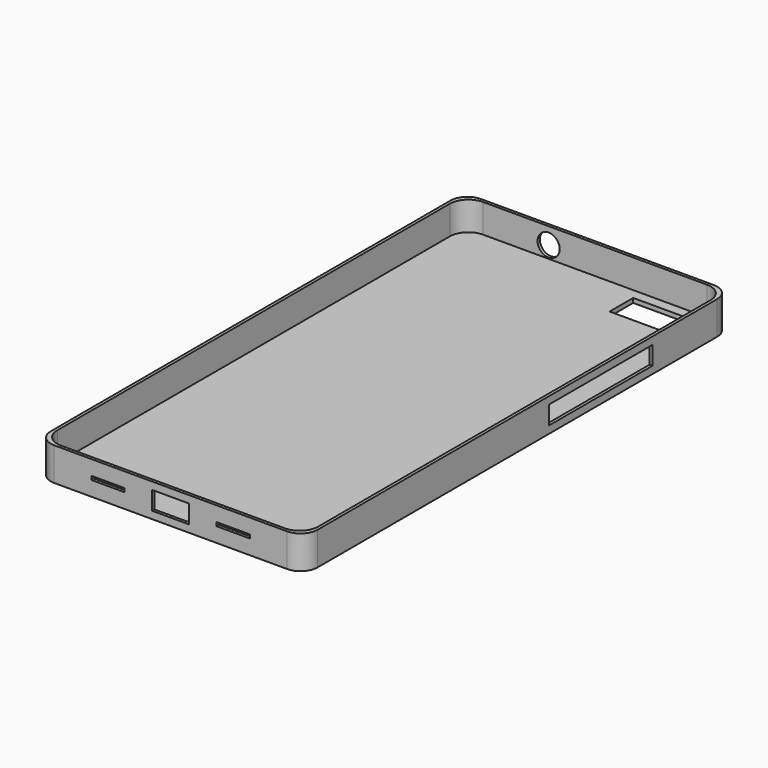
from build123d import *

# Parameters (mm, degrees)
F1_DEPTH  = 1.2
F2_DEPTH  = 9
F4_DEPTH  = 1.2
F5_W      = 10
F5_H      = 5
F6_DEPTH  = 1.2
F7_W      = 9
F7_H      = 1
F8_DEPTH  = 1.2
F9_W      = 15
F9_H      = 8
F10_DEPTH = 1.2
F11_R     = 3
F12_DEPTH = 1.2
F14_DEPTH = 9.001


with BuildPart() as f1:
    # F0 (on Top) → F1 (new body)
    with BuildSketch(Plane.XY):
        with BuildLine():
            Line((-31.6, -72.8), (31.6, -72.8))
            ThreePointArc((31.6, -72.8), (35.1355339059, -71.3355339059), (36.6, -67.8))
            Line((36.6, -67.8), (36.6, 67.8))
            ThreePointArc((36.6, 67.8), (35.1355339059, 71.3355339059), (31.6, 72.8))
            Line((31.6, 72.8), (-31.6, 72.8))
            ThreePointArc((-31.6, 72.8), (-35.1355339059, 71.3355339059), (-36.6, 67.8))
            Line((-36.6, 67.8), (-36.6, -67.8))
            ThreePointArc((-36.6, -67.8), (-35.1355339059, -71.3355339059), (-31.6, -72.8))
        make_face()
        with BuildLine():
            ThreePointArc((35.4, -66.6), (33.9355339059, -70.1355339059), (30.4, -71.6))
            Line((30.4, -71.6), (-30.4, -71.6))
            ThreePointArc((-30.4, -71.6), (-33.9355339059, -70.1355339059), (-35.4, -66.6))
            Line((-35.4, -66.6), (-35.4, 66.6))
            ThreePointArc((-35.4, 66.6), (-33.9355339059, 70.1355339059), (-30.4, 71.6))
            Line((-30.4, 71.6), (30.4, 71.6))
            ThreePointArc((30.4, 71.6), (33.9355339059, 70.1355339059), (35.4, 66.6))
            Line((35.4, 66.6), (35.4, -66.6))
        make_face(mode=Mode.SUBTRACT)
        with BuildLine():
            Line((-30.4, -71.6), (30.4, -71.6))
            ThreePointArc((30.4, -71.6), (33.9355339059, -70.1355339059), (35.4, -66.6))
            Line((35.4, -66.6), (35.4, 66.6))
            ThreePointArc((35.4, 66.6), (33.9355339059, 70.1355339059), (30.4, 71.6))
            Line((30.4, 71.6), (-30.4, 71.6))
            ThreePointArc((-30.4, 71.6), (-33.9355339059, 70.1355339059), (-35.4, 66.6))
            Line((-35.4, 66.6), (-35.4, -66.6))
            ThreePointArc((-35.4, -66.6), (-33.9355339059, -70.1355339059), (-30.4, -71.6))
        make_face()
    extrude(amount=F1_DEPTH)

    # F0 (on Top) → F2 (join)
    with BuildSketch(Plane.XY):
        with BuildLine():
            Line((-31.6, -72.8), (31.6, -72.8))
            ThreePointArc((31.6, -72.8), (35.1355339059, -71.3355339059), (36.6, -67.8))
            Line((36.6, -67.8), (36.6, 67.8))
            ThreePointArc((36.6, 67.8), (35.1355339059, 71.3355339059), (31.6, 72.8))
            Line((31.6, 72.8), (-31.6, 72.8))
            ThreePointArc((-31.6, 72.8), (-35.1355339059, 71.3355339059), (-36.6, 67.8))
            Line((-36.6, 67.8), (-36.6, -67.8))
            ThreePointArc((-36.6, -67.8), (-35.1355339059, -71.3355339059), (-31.6, -72.8))
        make_face()
        with BuildLine():
            ThreePointArc((35.4, -66.6), (33.9355339059, -70.1355339059), (30.4, -71.6))
            Line((30.4, -71.6), (-30.4, -71.6))
            ThreePointArc((-30.4, -71.6), (-33.9355339059, -70.1355339059), (-35.4, -66.6))
            Line((-35.4, -66.6), (-35.4, 66.6))
            ThreePointArc((-35.4, 66.6), (-33.9355339059, 70.1355339059), (-30.4, 71.6))
            Line((-30.4, 71.6), (30.4, 71.6))
            ThreePointArc((30.4, 71.6), (33.9355339059, 70.1355339059), (35.4, 66.6))
            Line((35.4, 66.6), (35.4, -66.6))
        make_face(mode=Mode.SUBTRACT)
    extrude(amount=F2_DEPTH)

    # F3 (on face) → F4 (cut, through all)
    with BuildSketch(Plane.YZ.offset(36.6)):
        Polygon((19.8, 2), (26.1, 2), (45.8, 2), (45.8, 7), (26.1, 7), (19.8, 7), (10.8, 7), (10.8, 2), align=None)
    extrude(amount=-F4_DEPTH, mode=Mode.SUBTRACT)

    # F5 (on face) → F6 (cut, through all)
    with BuildSketch(Plane.XZ.offset(72.8)):
        with Locations((0, 4.5)):
            Rectangle(F5_W, F5_H)
    extrude(amount=-F6_DEPTH, mode=Mode.SUBTRACT)

    # F7 (on face) → F8 (cut, through all)
    with BuildSketch(Plane.XZ.offset(72.8)):
        with Locations((-17, 4.5)):
            Rectangle(F7_W, F7_H)
        with Locations((17, 4.5)):
            Rectangle(F7_W, F7_H)
    extrude(amount=-F8_DEPTH, mode=Mode.SUBTRACT)

    # F9 (on face) → F10 (cut, through all)
    with BuildSketch(Plane(origin=(0, 0, 0), x_dir=(1, 0, 0), z_dir=(0, 0, -1))):
        with Locations((20.1, -64.8)):
            Rectangle(F9_W, F9_H)
    extrude(amount=-F10_DEPTH, mode=Mode.SUBTRACT)

    # F11 (on face) → F12 (cut, through all)
    with BuildSketch(Plane(origin=(0, 72.8, 0), x_dir=(-1, 0, 0), z_dir=(0, 1, 0))):
        with Locations((12.6, 4.5)):
            Circle(F11_R)
    extrude(amount=-F12_DEPTH, mode=Mode.SUBTRACT)

    # F13 (on face) → F14 (cut, through all)
    with BuildSketch(Plane.XY.offset(9)):
        with BuildLine():
            Line((-36.6, 67.8), (-36.6, -67.8))
            ThreePointArc((-36.6, -67.8), (-35.1355339059, -71.3355339059), (-31.6, -72.8))
            Line((-31.6, -72.8), (31.6, -72.8))
            ThreePointArc((31.6, -72.8), (35.1355339059, -71.3355339059), (36.6, -67.8))
            Line((36.6, -67.8), (36.6, 67.8))
            ThreePointArc((36.6, 67.8), (35.1355339059, 71.3355339059), (31.6, 72.8))
            Line((31.6, 72.8), (-31.6, 72.8))
            ThreePointArc((-31.6, 72.8), (-35.1355339059, 71.3355339059), (-36.6, 67.8))
        make_face()
        with BuildLine():
            Line((-31.6, 72.4), (31.6, 72.4))
            ThreePointArc((31.6, 72.4), (34.8526911935, 71.0526911935), (36.2, 67.8))
            Line((36.2, 67.8), (36.2, -67.8))
            ThreePointArc((36.2, -67.8), (34.8526911935, -71.0526911935), (31.6, -72.4))
            Line((31.6, -72.4), (-31.6, -72.4))
            ThreePointArc((-31.6, -72.4), (-34.8526911935, -71.0526911935), (-36.2, -67.8))
            Line((-36.2, -67.8), (-36.2, 67.8))
            ThreePointArc((-36.2, 67.8), (-34.8526911935, 71.0526911935), (-31.6, 72.4))
        make_face(mode=Mode.SUBTRACT)
    extrude(amount=-F14_DEPTH, mode=Mode.SUBTRACT)


solid = f1.part
